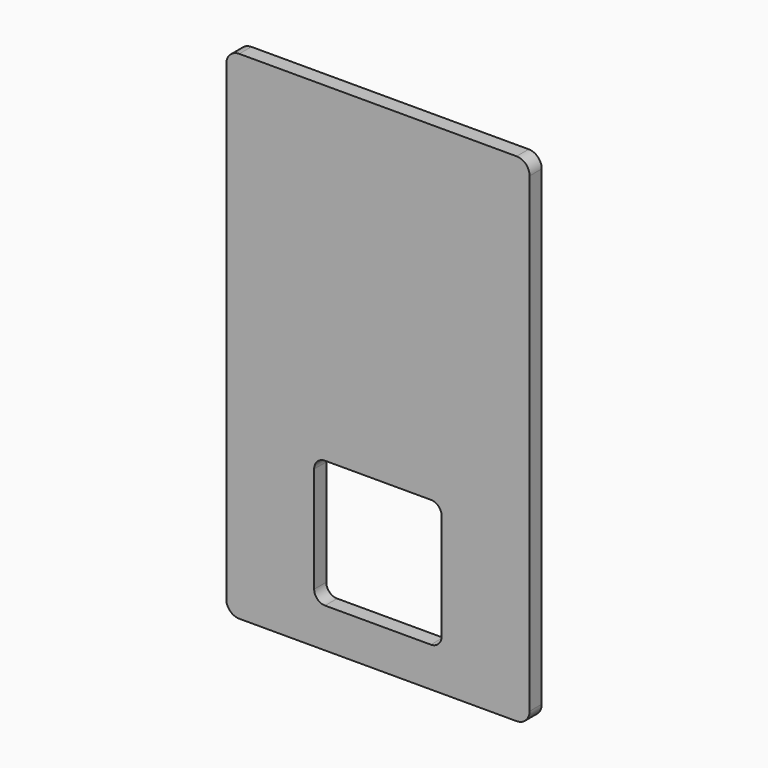
from build123d import *

# Parameters (mm, degrees)
F2_DEPTH = 2.2225
F3_DEPTH = 12.7
F4_T     = -2.54


with BuildPart() as f2:
    # F0 (on Front) → F2 (new body, symmetric)
    with BuildSketch(Plane.XZ):
        with BuildLine():
            Line((40.6019, 72.8091), (-40.6019, 72.8091))
            ThreePointArc((-40.6019, 72.8091), (-43.295977, 71.693177), (-44.4119, 68.9991))
            Line((-44.4119, 68.9991), (-44.4119, -68.9991))
            ThreePointArc((-44.4119, -68.9991), (-43.295977, -71.693177), (-40.6019, -72.8091))
            Line((-40.6019, -72.8091), (40.6019, -72.8091))
            ThreePointArc((40.6019, -72.8091), (43.295977, -71.693177), (44.4119, -68.9991))
            Line((44.4119, -68.9991), (44.4119, 68.9991))
            ThreePointArc((44.4119, 68.9991), (43.295977, 71.693177), (40.6019, 72.8091))
        make_face()
    extrude(amount=F2_DEPTH, both=True)

    # F1 (on face) → F3 (cut, symmetric)
    with BuildSketch(Plane.XZ):
        with BuildLine():
            Line((15.494, -23.90966), (-15.494, -23.90966))
            ThreePointArc((-15.494, -23.90966), (-17.739064, -24.839596), (-18.669, -27.08466))
            Line((-18.669, -27.08466), (-18.669, -58.07266))
            ThreePointArc((-18.669, -58.07266), (-17.739064, -60.317724), (-15.494, -61.24766))
            Line((-15.494, -61.24766), (15.494, -61.24766))
            ThreePointArc((15.494, -61.24766), (17.739064, -60.317724), (18.669, -58.07266))
            Line((18.669, -58.07266), (18.669, -27.08466))
            ThreePointArc((18.669, -27.08466), (17.739064, -24.839596), (15.494, -23.90966))
        make_face()
    extrude(amount=F3_DEPTH, both=True, mode=Mode.SUBTRACT)

    # F4
    f4_openings = [f2.faces().sort_by_distance(p)[0] for p in [
        (0, 2.2225, 5.113505),
    ]]
    offset(amount=F4_T, openings=f4_openings)


solid = f2.part
